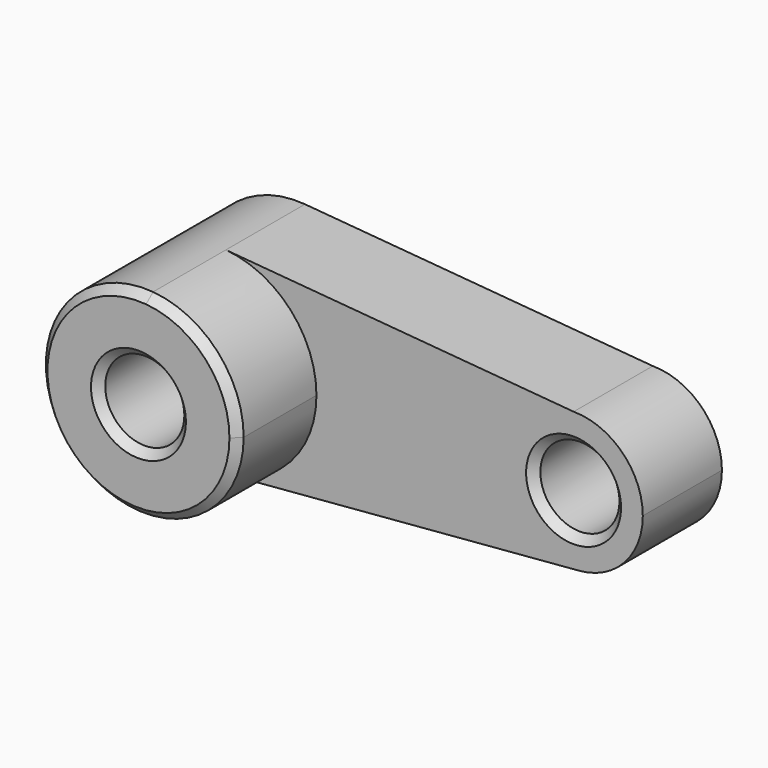
from build123d import *

# Parameters (mm, degrees)
F0_R     = 10
F1_DEPTH = 25
F2_R     = 10
F3_DEPTH = 50
F4_SIZE  = 2


with BuildPart() as f1:
    # F0 (on Front) → F1 (new body)
    with BuildSketch(Plane.XZ):
        with BuildLine():
            ThreePointArc((2.100041, 24.91164), (-24.999999, 0.008383), (2.083333, -24.913043))
            ThreePointArc((2.083333, -24.913043), (18.399502, -16.92508), (25, 0))
            ThreePointArc((25, 0), (18.405176, 16.918909), (2.100041, 24.91164))
        make_face()
        Circle(F0_R, mode=Mode.SUBTRACT)
        with BuildLine():
            ThreePointArc((25, 0), (18.399502, -16.92508), (2.083333, -24.913043))
            Line((2.083333, -24.913043), (91.458333, -17.43913))
            ThreePointArc((91.458333, -17.43913), (72.514802, -0.71961), (90.020401, 17.499988))
            Line((90.020401, 17.499988), (2.100041, 24.91164))
            ThreePointArc((2.100041, 24.91164), (18.405176, 16.918909), (25, 0))
        make_face()
        with BuildLine():
            ThreePointArc((90.020401, 17.499988), (72.514802, -0.71961), (91.458333, -17.43913))
            ThreePointArc((91.458333, -17.43913), (102.879651, -11.847556), (107.5, 0))
            ThreePointArc((107.5, 0), (102.381579, 12.367154), (90.020401, 17.499988))
        make_face()
        with Locations((90, 0)):
            Circle(F0_R, mode=Mode.SUBTRACT)
    extrude(amount=F1_DEPTH)

    # F2 (on face) → F3 (join)
    with BuildSketch(Plane.XZ):
        with BuildLine():
            ThreePointArc((25, 0), (18.405176, 16.918909), (2.100041, 24.91164))
            ThreePointArc((2.100041, 24.91164), (-24.999999, 0.008383), (2.083333, -24.913043))
            ThreePointArc((2.083333, -24.913043), (18.399502, -16.92508), (25, 0))
        make_face()
        Circle(F2_R, mode=Mode.SUBTRACT)
    extrude(amount=F3_DEPTH)

    # F4
    f4_edges = [f1.edges().sort_by_distance(p)[0] for p in [
        (-2.083333, -50, 24.913043),
        (-10, -50, 0),
        (80, -25, 0),
    ]]
    chamfer(f4_edges, length=F4_SIZE)


solid = f1.part
